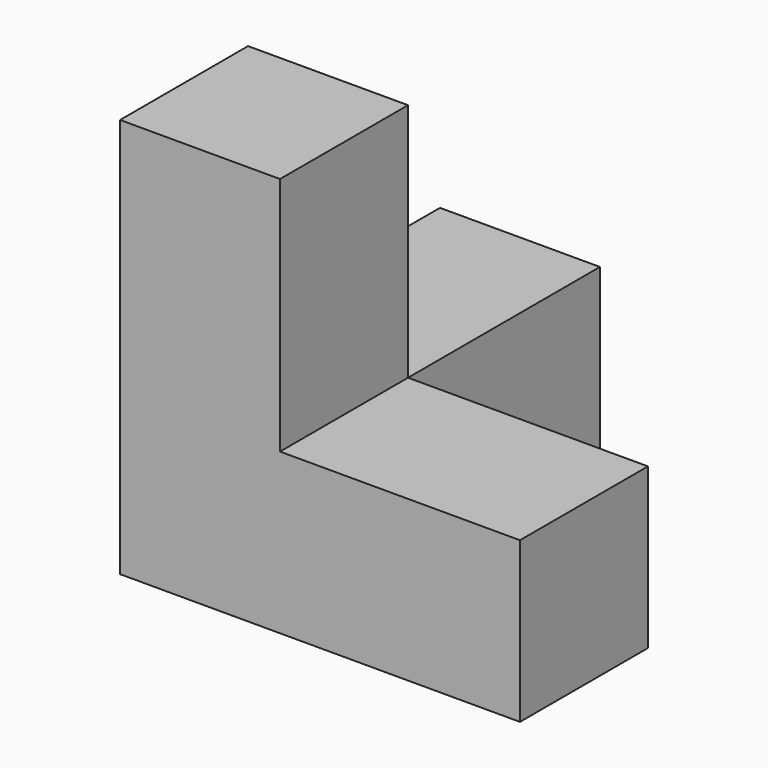
from build123d import *

# Parameters (mm, degrees)
F3_W      = 16
F3_H      = 16
F6_DEPTH  = 40
F4_W      = 16
F4_H      = 16
F7_DEPTH  = 40
F5_W      = 16
F5_H      = 16
F8_DEPTH  = 40
F9_D      = 2.5
F9_DEPTH  = 13
F9_TIP    = 0.7510757738
F10_D     = 4
F10_DEPTH = 2
F10_TIP   = 1.2017212381
F11_D     = 2.5
F11_DEPTH = 13
F11_TIP   = 0.7510757738
F12_D     = 4
F12_DEPTH = 2
F12_TIP   = 1.2017212381
F13_D     = 2.5
F13_DEPTH = 13
F13_TIP   = 0.7510757738
F14_D     = 4
F14_DEPTH = 2
F14_TIP   = 1.2017212381


with BuildPart() as f6:
    # F3 (on offset) → F6 (new body)
    with BuildSketch(Plane.XZ.offset(17.5)):
        with Locations((-9.5, -9.5)):
            Rectangle(F3_W, F3_H)
    extrude(amount=-F6_DEPTH)

    # F4 (on offset) → F7 (join)
    with BuildSketch(Plane.YZ.offset(-17.5)):
        with Locations((-9.5, -9.5)):
            Rectangle(F4_W, F4_H)
    extrude(amount=F7_DEPTH)

    # F5 (on offset) → F8 (join)
    with BuildSketch(Plane.XY.offset(-17.5)):
        with Locations((-9.5, -9.5)):
            Rectangle(F5_W, F5_H)
    extrude(amount=F8_DEPTH)

    # F9
    with Locations(Plane(origin=(0, 0, -17.5), x_dir=(1, 0, 0), z_dir=(0, 0, -1))):
        with Locations((6, 9.5)):
            Hole(F9_D / 2, depth=F9_DEPTH)
            with Locations((0, 0, -(F9_DEPTH + F9_TIP / 2))):  # 118° drill point
                Cone(0, F9_D / 2, F9_TIP, mode=Mode.SUBTRACT)

    # F10
    with Locations(Plane(origin=(0, 0, -17.5), x_dir=(1, 0, 0), z_dir=(0, 0, -1))):
        with Locations((6, 9.5)):
            Hole(F10_D / 2, depth=F10_DEPTH)
            with Locations((0, 0, -(F10_DEPTH + F10_TIP / 2))):  # 118° drill point
                Cone(0, F10_D / 2, F10_TIP, mode=Mode.SUBTRACT)

    # F11
    with Locations(Plane(origin=(0, 0, -17.5), x_dir=(1, 0, 0), z_dir=(0, 0, -1))):
        with Locations((-9.5, -6)):
            Hole(F11_D / 2, depth=F11_DEPTH)
            with Locations((0, 0, -(F11_DEPTH + F11_TIP / 2))):  # 118° drill point
                Cone(0, F11_D / 2, F11_TIP, mode=Mode.SUBTRACT)

    # F12
    with Locations(Plane(origin=(0, 0, -17.5), x_dir=(1, 0, 0), z_dir=(0, 0, -1))):
        with Locations((-9.5, -6)):
            Hole(F12_D / 2, depth=F12_DEPTH)
            with Locations((0, 0, -(F12_DEPTH + F12_TIP / 2))):  # 118° drill point
                Cone(0, F12_D / 2, F12_TIP, mode=Mode.SUBTRACT)

    # F13
    with Locations(Plane(origin=(-17.5, 0, 0), x_dir=(0, 1, 0), z_dir=(-1, 0, 0))):
        with Locations((-9.5, -6)):
            Hole(F13_D / 2, depth=F13_DEPTH)
            with Locations((0, 0, -(F13_DEPTH + F13_TIP / 2))):  # 118° drill point
                Cone(0, F13_D / 2, F13_TIP, mode=Mode.SUBTRACT)

    # F14
    with Locations(Plane(origin=(-17.5, 0, 0), x_dir=(0, 1, 0), z_dir=(-1, 0, 0))):
        with Locations((-9.5, -6)):
            Hole(F14_D / 2, depth=F14_DEPTH)
            with Locations((0, 0, -(F14_DEPTH + F14_TIP / 2))):  # 118° drill point
                Cone(0, F14_D / 2, F14_TIP, mode=Mode.SUBTRACT)


solid = f6.part
